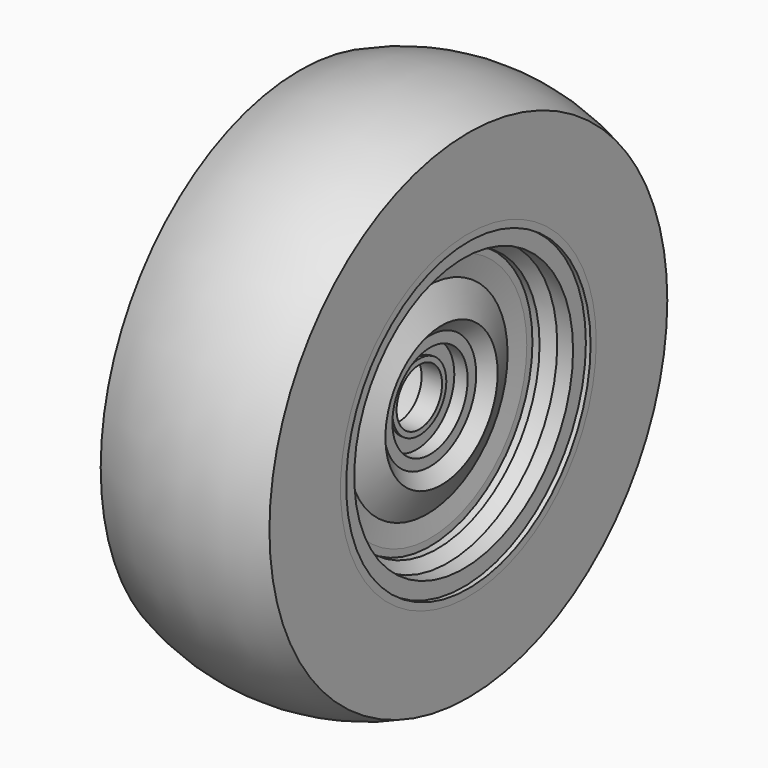
from build123d import *


with BuildPart() as wheel:
    # Sketch002 → Revolution001 (revolve)
    with BuildSketch(Plane.XY):
        Polygon((-190, 180), (-178.7, 180), (-178.7, 160), (-105.135072, 160), (-93.217536, 150), (-37.217536, 150), (-25.3, 160), (-11.3, 160), (-11.3, 180), (0, 180), (-3e-06, 172.021624), (-5.3, 172.021624), (-5.3, 154), (-23.116179, 154), (-35.033715, 144), (-43.033715, 144), (-43.033715, 136), (-46.223715, 113), (-30.223715, 79), (-43.185213, 65), (-43.185213, 53), (-58.223715, 53), (-58.223715, 38), (-55.223715, 38), (-55.223715, 32), (-78.223715, 32), (-78.223715, 72), (-58.223715, 72), (-58.223715, 144), (-95.401357, 144), (-107.318893, 154), (-184.7, 154), (-184.7, 172.021624), (-189.999934, 172.021624), align=None)
    revolve(axis=Axis((0, 0, 0), (1, 0, 0)))


with BuildPart() as tire:
    # Sketch003 → Revolution (revolve)
    with BuildSketch(Plane.XY):
        with BuildLine():
            Line((-190, 180), (-178.7, 180))
            Line((-178.7, 180), (-178.7, 160))
            Line((-178.7, 160), (-164.7, 160))
            Line((-164.7, 160), (-164.7, 166))
            Line((-164.7, 166), (-172.7, 166))
            Line((-172.7, 166), (-172.7, 186))
            Line((-172.7, 186), (-183, 186))
            Line((-183, 186), (-183, 275.195646))
            ThreePointArc((-7, 275.195646), (-95, 288.006951), (-183, 275.195646))
            Line((-7, 275.195646), (-7, 186))
            Line((-7, 186), (-17.3, 186))
            Line((-17.3, 186), (-17.3, 166))
            Line((-17.3, 166), (-25.3, 166))
            Line((-25.3, 160), (-25.3, 166))
            Line((-25.3, 160), (-11.3, 160))
            Line((-11.3, 160), (-11.3, 180))
            Line((-11.3, 180), (0, 180))
            Line((0, 180), (0, 279.999821))
            ThreePointArc((0, 279.999821), (-95, 300.009463), (-190, 279.999821))
            Line((-190, 180), (-190, 279.999821))
        make_face()
    revolve(axis=Axis((0, 0, 0), (1, 0, 0)))


solid = Compound([wheel.part, tire.part])
